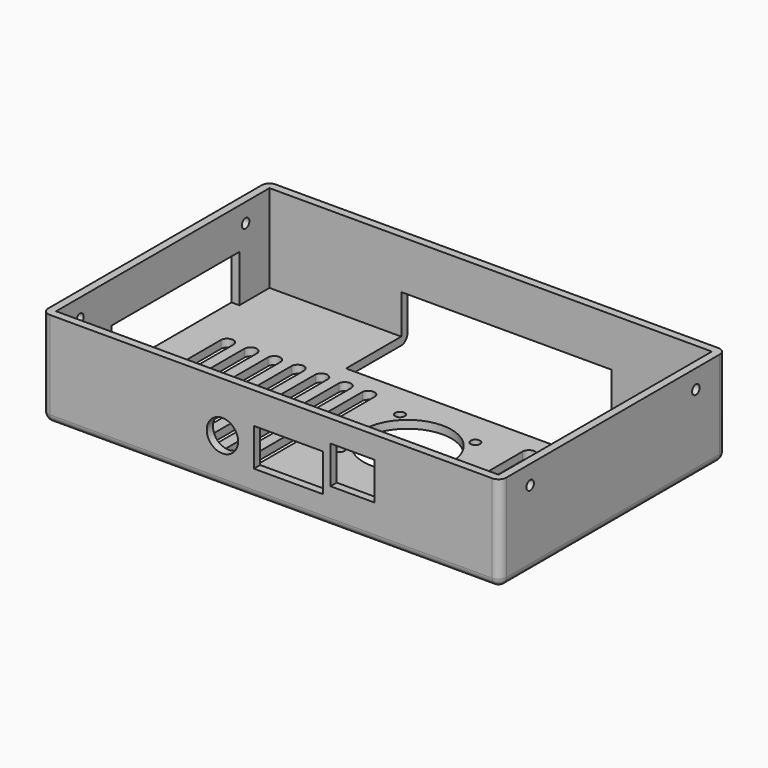
from build123d import *

# Parameters (mm, degrees)
SKETCH_W               = 141
SKETCH_H               = 85
PAD_DEPTH              = 28
THICKNESS_T            = 2.5
SKETCH001_R            = 1.5
POCKET_DEPTH           = 146.001
SKETCH003_W            = 51
SKETCH003_H            = 15
POCKET001_DEPTH        = 5
SKETCH004_W            = 67
SKETCH004_H            = 34.253407
POCKET002_DEPTH        = 15
SKETCH005_R            = 5
SKETCH005_W            = 22
SKETCH005_H            = 12
SKETCH005_W_2          = 14
POCKET003_DEPTH        = 5
SKETCH006_R            = 14
SKETCH006_R_2          = 1.5
POCKET004_DEPTH        = 5
POCKET005_DEPTH        = 5
LINEARPATTERN_COUNT    = 7
LINEARPATTERN_PITCH    = 7.5
POCKET006_DEPTH        = 5
LINEARPATTERN001_COUNT = 5
LINEARPATTERN001_PITCH = 7


with BuildPart() as part:
    # Sketch → Pad (new body)
    with BuildSketch(Plane.XY):
        Rectangle(SKETCH_W, SKETCH_H)
    extrude(amount=PAD_DEPTH)

    # Thickness
    thickness_openings = [part.faces().sort_by_distance(p)[0] for p in [
        (0, 0, 28),
    ]]
    offset(amount=THICKNESS_T, openings=thickness_openings)

    # Sketch001 → Pocket (cut, through all)
    with BuildSketch(Plane(origin=(-73, 0, 0), x_dir=(0, -1, 0), z_dir=(-1, 0, 0))):
        with Locations((-33, 22)):
            Circle(SKETCH001_R)
        with Locations((33, 22)):
            Circle(SKETCH001_R)
    extrude(amount=-POCKET_DEPTH, mode=Mode.SUBTRACT)

    # Sketch003 → Pocket001 (cut)
    with BuildSketch(Plane(origin=(-73, 0, 0), x_dir=(0, -1, 0), z_dir=(-1, 0, 0))):
        with Locations((-5, 7.5)):
            Rectangle(SKETCH003_W, SKETCH003_H)
    extrude(amount=-POCKET001_DEPTH, mode=Mode.SUBTRACT)

    # Sketch004 → Pocket002 (cut)
    with BuildSketch(Plane(origin=(0, 0, -2.5), x_dir=(1, 0, 0), z_dir=(0, 0, -1))):
        with Locations((5, -37.626703)):
            Rectangle(SKETCH004_W, SKETCH004_H)
    extrude(amount=-POCKET002_DEPTH, mode=Mode.SUBTRACT)

    # Sketch005 → Pocket003 (cut)
    with BuildSketch(Plane.XZ.offset(45)):
        with Locations((-15.5, 12)):
            Circle(SKETCH005_R)
        with Locations((5.5, 12)):
            Rectangle(SKETCH005_W, SKETCH005_H)
        with Locations((25.939165, 15)):
            Rectangle(SKETCH005_W_2, SKETCH005_H)
    extrude(amount=-POCKET003_DEPTH, mode=Mode.SUBTRACT)

    # Sketch006 → Pocket004 (cut)
    with BuildSketch(Plane(origin=(0, 0, -2.5), x_dir=(1, 0, 0), z_dir=(0, 0, -1))):
        with Locations((9.5, 2.5)):
            Circle(SKETCH006_R)
        with Locations((-2.5, 14.5)):
            Circle(SKETCH006_R_2)
        with Locations((21.5, 14.5)):
            Circle(SKETCH006_R_2)
        with Locations((21.5, -9.5)):
            Circle(SKETCH006_R_2)
        with Locations((-2.5, -9.5)):
            Circle(SKETCH006_R_2)
    extrude(amount=-POCKET004_DEPTH, mode=Mode.SUBTRACT)

    # Sketch007 → Pocket005 (cut)
    with BuildSketch(Plane(origin=(0, 0, -2.5), x_dir=(1, 0, 0), z_dir=(0, 0, -1))):
        with BuildLine():
            Line((-58.404976, 36.87695), (-58.404976, -13.12305))
            ThreePointArc((-62.404976, -13.12305), (-60.404976, -15.003782), (-58.404976, -13.12305))
            Line((-62.404976, -13.12305), (-62.404976, 36.87695))
            ThreePointArc((-58.404976, 36.87695), (-60.404976, 38.729629), (-62.404976, 36.87695))
        make_face()
    pocket005 = extrude(amount=-POCKET005_DEPTH, mode=Mode.SUBTRACT)

    # LinearPattern: Pocket005 ×7
    with Locations(*[(i * LINEARPATTERN_PITCH, 0, 0) for i in range(1, LINEARPATTERN_COUNT)]):
        add(pocket005, mode=Mode.SUBTRACT)

    # Sketch008 → Pocket006 (cut)
    with BuildSketch(Plane(origin=(0, 0, -2.5), x_dir=(1, 0, 0), z_dir=(0, 0, -1))):
        with BuildLine():
            Line((37.782045, 37), (37.782045, -13))
            ThreePointArc((33.782045, -13), (35.782045, -15), (37.782045, -13))
            Line((33.782045, -13), (33.782045, 37))
            ThreePointArc((37.782045, 37), (35.782045, 39), (33.782045, 37))
        make_face()
    pocket006 = extrude(amount=-POCKET006_DEPTH, mode=Mode.SUBTRACT)

    # LinearPattern001: Pocket006 ×5
    with Locations(*[(i * LINEARPATTERN001_PITCH, 0, 0) for i in range(1, LINEARPATTERN001_COUNT)]):
        add(pocket006, mode=Mode.SUBTRACT)


solid = part.part
